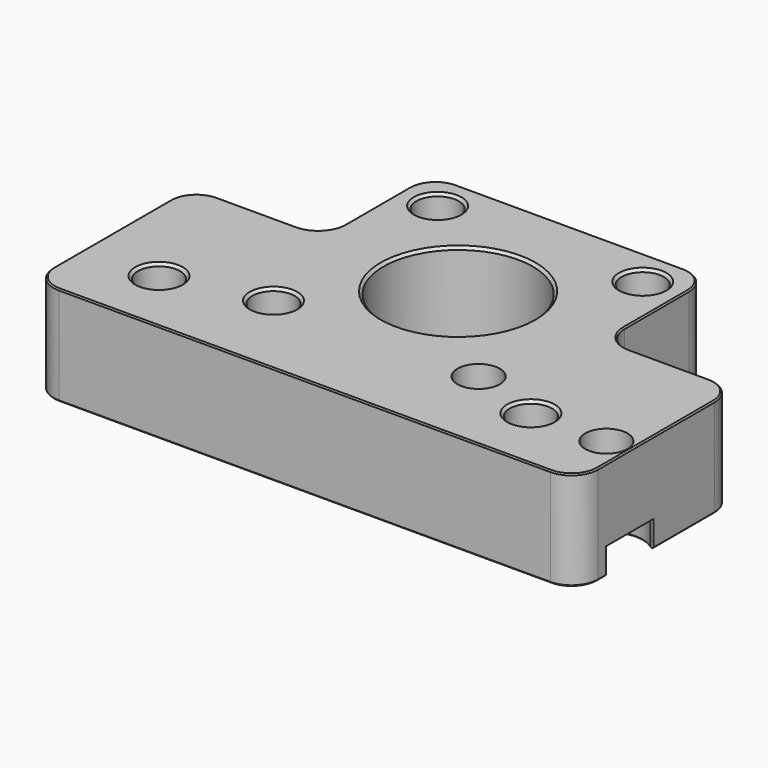
from build123d import *

# Parameters (mm, degrees)
SKETCH_R        = 11.3
SKETCH_R_2      = 1.6
SKETCH_R_3      = 3.2
PAD_DEPTH       = 15
SKETCH001_R     = 3.2
POCKET_DEPTH    = 4
SKETCH002_R     = 5.4
POCKET001_DEPTH = 4
FILLET_R        = 4
CHAMFER_SIZE    = 0.4
CHAMFER001_SIZE = 0.2
CHAMFER002_SIZE = 0.2
CHAMFER003_SIZE = 0.4


with BuildPart() as part:
    # Sketch → Pad (new body)
    with BuildSketch(Plane.XY):
        Polygon((20, 30), (20, 50.15), (62.3, 50.15), (62.3, 30), (82.3, 30), (82.3, 0), (0, 0), (0, 30), align=None)
        with Locations((41.15, 29)):
            Circle(SKETCH_R, mode=Mode.SUBTRACT)
        with Locations((25.65, 44.5)):
            Circle(SKETCH_R_2, mode=Mode.SUBTRACT)
        with Locations((25.65, 13.5)):
            Circle(SKETCH_R_2, mode=Mode.SUBTRACT)
        with Locations((56.65, 44.5)):
            Circle(SKETCH_R_2, mode=Mode.SUBTRACT)
        with Locations((56.65, 13.5)):
            Circle(SKETCH_R_2, mode=Mode.SUBTRACT)
        with Locations((11.15, 10)):
            Circle(SKETCH_R_3, mode=Mode.SUBTRACT)
        with Locations((67.35, 10)):
            Circle(SKETCH_R_3, mode=Mode.SUBTRACT)
        with Locations((78.75, 10)):
            Circle(SKETCH_R_3, mode=Mode.SUBTRACT)
    extrude(amount=PAD_DEPTH)

    # Sketch001 (on Face18 of Pad) → Pocket (cut)
    with BuildSketch(Plane.XY.offset(15)):
        with Locations((25.65, 44.5)):
            Circle(SKETCH001_R)
        with Locations((56.65, 44.5)):
            Circle(SKETCH001_R)
        with Locations((56.65, 13.5)):
            Circle(SKETCH001_R)
        with Locations((25.65, 13.5)):
            Circle(SKETCH001_R)
    extrude(amount=-POCKET_DEPTH, mode=Mode.SUBTRACT)

    # Sketch002 (on Face4 of Pocket) → Pocket001 (cut)
    with BuildSketch(Plane(origin=(0, 0, 0), x_dir=(1, 0, 0), z_dir=(0, 0, -1))):
        with Locations((11.15, -10)):
            Circle(SKETCH002_R)
        with Locations((67.35, -10)):
            Circle(SKETCH002_R)
        with Locations((78.75, -10)):
            Circle(SKETCH002_R)
    extrude(amount=-POCKET001_DEPTH, mode=Mode.SUBTRACT)

    # Fillet
    fillet_edges = [part.edges().sort_by_distance(p)[0] for p in [
        (0, 30, 7.5),
        (0, 0, 7.5),
        (82.3, 0, 7.5),
        (82.3, 30, 7.5),
        (62.3, 30, 7.5),
        (62.3, 50.15, 7.5),
        (20, 50.15, 7.5),
        (20, 30, 7.5),
    ]]
    fillet(fillet_edges, radius=FILLET_R)

    # Chamfer
    chamfer_edges = [part.edges().sort_by_distance(p)[0] for p in [
        (64.15, 10, 15),
        (53.45, 44.5, 15),
        (29.85, 29, 15),
        (22.45, 44.5, 15),
        (22.45, 13.5, 15),
        (7.95, 10, 15),
    ]]
    chamfer(chamfer_edges, length=CHAMFER_SIZE)

    # Chamfer001
    chamfer001_edges = [part.edges().sort_by_distance(p)[0] for p in [
        (81.128427, 1.171573, 15),
        (41.15, 0, 15),
        (1.171573, 1.171573, 15),
        (0, 15, 15),
        (1.171573, 28.828427, 15),
        (10, 30, 15),
        (18.828427, 31.171573, 15),
        (20, 40.075, 15),
        (21.171573, 48.978427, 15),
        (41.15, 50.15, 15),
        (61.128427, 48.978427, 15),
        (62.3, 40.075, 15),
        (63.471573, 31.171573, 15),
        (72.3, 30, 15),
        (81.128427, 28.828427, 15),
    ]]
    chamfer(chamfer001_edges, length=CHAMFER001_SIZE)

    # Chamfer002
    chamfer002_edges = [part.edges().sort_by_distance(p)[0] for p in [
        (10, 30, 0),
        (1.171573, 28.828427, 0),
        (18.828427, 31.171573, 0),
        (0, 15, 0),
        (20, 40.075, 0),
        (1.171573, 1.171573, 0),
        (21.171573, 48.978427, 0),
        (41.15, 0, 0),
        (41.15, 50.15, 0),
        (81.128427, 1.171573, 0),
        (61.128427, 48.978427, 0),
        (82.3, 4.965455, 0),
        (62.3, 40.075, 0),
        (73.35, 10, 0),
        (63.471573, 31.171573, 0),
        (82.3, 20.034545, 0),
        (72.3, 30, 0),
        (81.128427, 28.828427, 0),
        (61.95, 10, 0),
        (55.05, 13.5, 0),
        (24.05, 13.5, 0),
        (5.75, 10, 0),
        (55.05, 44.5, 0),
        (29.85, 29, 0),
        (24.05, 44.5, 0),
    ]]
    chamfer(chamfer002_edges, length=CHAMFER002_SIZE)

    # Chamfer003
    chamfer003_edges = [part.edges().sort_by_distance(p)[0] for p in [
        (82.3, 5.930909, 2.1),
        (82.3, 14.069091, 2.1),
    ]]
    chamfer(chamfer003_edges, length=CHAMFER003_SIZE)


solid = part.part
